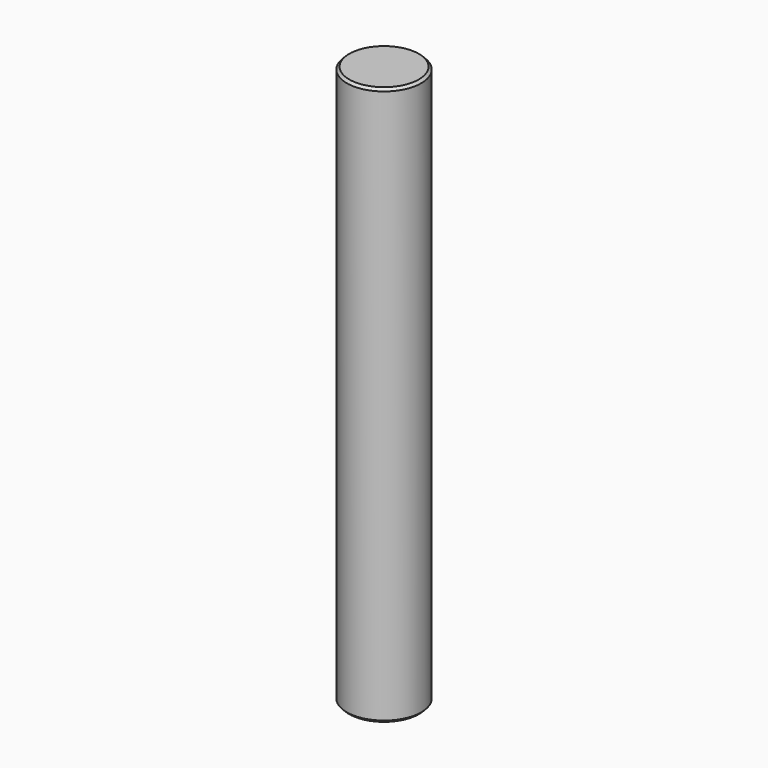
from build123d import *

# Parameters (mm, degrees)
SKETCH_R        = 3
PAD_DEPTH       = 45
CHAMFER_SIZE    = 0.2
CHAMFER001_SIZE = 0.2


with BuildPart() as part:
    # Sketch → Pad (new body)
    with BuildSketch(Plane.XY):
        Circle(SKETCH_R)
    extrude(amount=PAD_DEPTH)

    # Chamfer
    chamfer_edges = [part.edges().sort_by_distance(p)[0] for p in [
        (-3, 0, 45),
    ]]
    chamfer(chamfer_edges, length=CHAMFER_SIZE)

    # Chamfer001
    chamfer001_edges = [part.edges().sort_by_distance(p)[0] for p in [
        (-3, 0, 0),
    ]]
    chamfer(chamfer001_edges, length=CHAMFER001_SIZE)


solid = part.part
